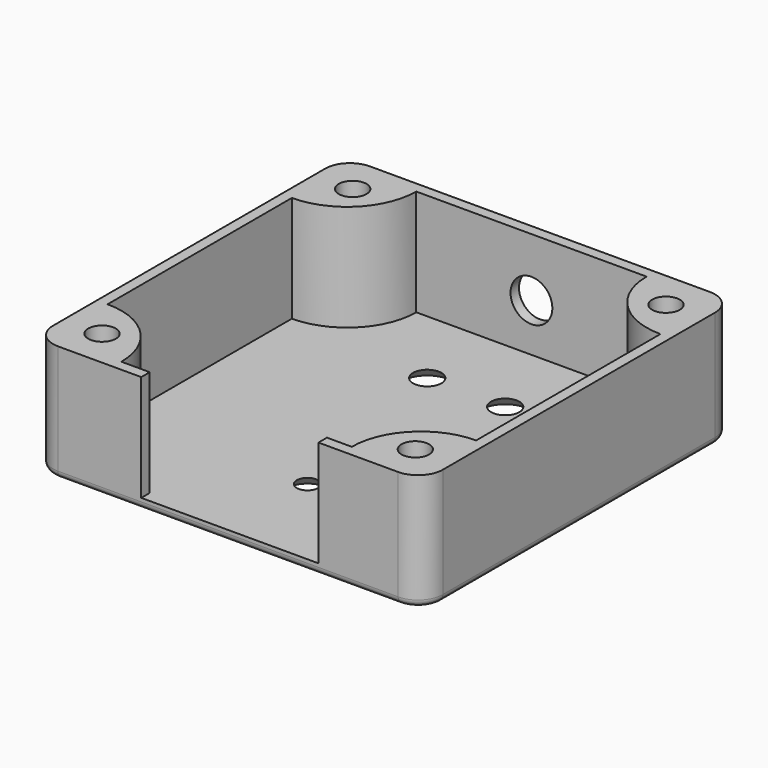
from build123d import *

# Parameters (mm, degrees)
PAD_DEPTH               = 16.5
POCKET_DEPTH            = 15
SKETCH002_R             = 1.95
PAD001_DEPTH            = 15
SKETCH002_MIRRORED_2_R  = 1.95
PAD001_MIRRORED_2_DEPTH = 15
FILLET_R                = 1
SKETCH008_W             = 25
SKETCH008_H             = 15
POCKET003_DEPTH         = 5
SKETCH010_R             = 1.5
SKETCH010_R_2           = 2
POCKET004_DEPTH         = 5
SKETCH011_R             = 2.95
POCKET005_DEPTH         = 5
CHAMFER_SIZE            = 1.499
POCKET006_DEPTH         = 0.5
SKETCH012_W             = 45.887503
SKETCH012_H             = 14.799758
PAD002_DEPTH            = 0.1
PAD003_DEPTH            = 0.4


with BuildPart() as main_box:
    # Sketch → Pad (new body)
    with BuildSketch(Plane.XY):
        with BuildLine():
            Line((-24, 27.5), (24, 27.5))
            ThreePointArc((27.5, 24), (26.474874, 26.474874), (24, 27.5))
            Line((27.5, 24), (27.5, -24))
            ThreePointArc((24, -27.5), (26.474874, -26.474874), (27.5, -24))
            Line((24, -27.5), (-24, -27.5))
            ThreePointArc((-27.5, -24), (-26.474874, -26.474874), (-24, -27.5))
            Line((-27.5, -24), (-27.5, 24))
            ThreePointArc((-24, 27.5), (-26.474874, 26.474874), (-27.5, 24))
        make_face()
    extrude(amount=PAD_DEPTH)

    # Sketch001 (on Face10 of Pad) → Pocket (cut)
    with BuildSketch(Plane.XY.offset(16.5)):
        with BuildLine():
            Line((-24.25, 26), (24.25, 26))
            ThreePointArc((26, 24.25), (25.487437, 25.487437), (24.25, 26))
            Line((26, 24.25), (26, -24.25))
            ThreePointArc((24.25, -26), (25.487437, -25.487437), (26, -24.25))
            Line((24.25, -26), (-24.25, -26))
            ThreePointArc((-26, -24.25), (-25.487437, -25.487437), (-24.25, -26))
            Line((-26, -24.25), (-26, 24.25))
            ThreePointArc((-24.25, 26), (-25.487437, 25.487437), (-26, 24.25))
        make_face()
    extrude(amount=-POCKET_DEPTH, mode=Mode.SUBTRACT)

    # Sketch002 (on Face19 of Pocket) → Pad001 (join)
    with BuildSketch(Plane.XY.offset(1.5)):
        with BuildLine():
            Line((-26, 16.25), (-26, 26))
            Line((-26, 26), (-16.25, 26))
            ThreePointArc((-26, 16.25), (-19.105709, 19.105709), (-16.25, 26))
        make_face()
        with Locations((-22.1, 22.1)):
            Circle(SKETCH002_R, mode=Mode.SUBTRACT)
    pad001 = extrude(amount=PAD001_DEPTH)

    # Sketch002 Mirrored 2 → Pad001 Mirrored 2 (add)
    with BuildSketch(Plane(origin=(0, 0, 1.5), x_dir=(-1, 0, 0), z_dir=(0, 0, -1))):
        with BuildLine():
            Line((-26, 16.25), (-26, 26))
            Line((-26, 26), (-16.25, 26))
            ThreePointArc((-26, 16.25), (-19.105709, 19.105709), (-16.25, 26))
        make_face()
        with Locations((-22.1, 22.1)):
            Circle(SKETCH002_MIRRORED_2_R, mode=Mode.SUBTRACT)
    pad001_mirrored_2 = extrude(amount=-PAD001_MIRRORED_2_DEPTH)

    # Mirrored001: Pad001, Pad001 Mirrored 2 across Sketch002 H_Axis
    add(pad001.mirror(Plane(origin=(0, 0, 1.5), x_dir=(0, 0, 1), z_dir=(0, 1, 0))))
    add(pad001_mirrored_2.mirror(Plane(origin=(0, 0, 1.5), x_dir=(0, 0, 1), z_dir=(0, 1, 0))))

    # Fillet
    fillet_edges = [main_box.edges().sort_by_distance(p)[0] for p in [
        (-27.5, 0, 0),
        (-26.474874, 26.474874, 0),
        (0, 27.5, 0),
        (26.474874, 26.474874, 0),
        (27.5, 0, 0),
        (26.474874, -26.474874, 0),
        (0, -27.5, 0),
        (-26.474874, -26.474874, 0),
    ]]
    fillet(fillet_edges, radius=FILLET_R)

    # Sketch008 (on Face7 of Fillet) → Pocket003 (cut)
    with BuildSketch(Plane.XZ.offset(27.5)):
        with Locations((0.25, 9)):
            Rectangle(SKETCH008_W, SKETCH008_H)
    extrude(amount=-POCKET003_DEPTH, mode=Mode.SUBTRACT)

    # Sketch010 (on Face35 of Pocket003) → Pocket004 (cut)
    with BuildSketch(Plane.XY.offset(1.5)):
        with Locations((0, -13.5)):
            Circle(SKETCH010_R)
        with Locations((-5.5, 14.5)):
            Circle(SKETCH010_R_2)
        with Locations((5.5, 14.5)):
            Circle(SKETCH010_R_2)
    extrude(amount=-POCKET004_DEPTH, mode=Mode.SUBTRACT)

    # Sketch011 (on Face10 of Pocket004) → Pocket005 (cut)
    with BuildSketch(Plane(origin=(0, 27.5, 0), x_dir=(-1, 0, 0), z_dir=(0, 1, 0))):
        with Locations((0, 8.25)):
            Circle(SKETCH011_R)
    extrude(amount=-POCKET005_DEPTH, mode=Mode.SUBTRACT)

    # Chamfer
    chamfer_edges = [main_box.edges().sort_by_distance(p)[0] for p in [
        (3.5, 14.5, 0),
        (-7.5, 14.5, 0),
        (-1.5, -13.5, 0),
    ]]
    chamfer(chamfer_edges, length=CHAMFER_SIZE)

    # Clone2D → Pocket006 (cut)
    with BuildSketch(Plane(origin=(0, 0, 0), x_dir=(-1, 0, 0), z_dir=(0, 0, 1))):
        with BuildLine():
            add(Edge.make_bspline(
                [(-20.310365, 7), (-22.666379, 7)],
                knots=[0, 0, 2.356014, 2.356014], degree=1))
            add(Edge.make_bspline(
                [(-22.666379, 7), (-20.272211, -7)],
                knots=[0, 0, 14.20324, 14.20324], degree=1))
            add(Edge.make_bspline(
                [(-20.272211, -7), (-15.169104, -7)],
                knots=[0, 0, 5.103107, 5.103107], degree=1))
            add(Edge.make_bspline(
                [(-15.169104, -7), (-13.757404, -7), (-13.061092, -6.62609)],
                knots=[0, 0, 0, 1, 1, 1], degree=2))
            add(Edge.make_bspline(
                [(-13.061092, -6.62609), (-12.36478, -6.252816), (-11.931096, -5.418514)],
                knots=[0, 0, 0, 1, 1, 1], degree=2))
            add(Edge.make_bspline(
                [(-11.931096, -5.418514), (-11.496775, -4.584847), (-11.496775, -3.310501)],
                knots=[0, 0, 0, 1, 1, 1], degree=2))
            add(Edge.make_bspline(
                [(-11.496775, -3.310501), (-11.496775, -1.441588), (-12.408021, -0.315407)],
                knots=[0, 0, 0, 1, 1, 1], degree=2))
            add(Edge.make_bspline(
                [(-12.408021, -0.315407), (-13.318632, 0.810138), (-15.026026, 1.078488)],
                knots=[0, 0, 0, 1, 1, 1], degree=2))
            add(Edge.make_bspline(
                [(-15.026026, 1.078488), (-14.549101, 1.595476), (-14.091252, 2.545512)],
                knots=[0, 0, 0, 1, 1, 1], degree=2))
            add(Edge.make_bspline(
                [(-14.091252, 2.545512), (-13.32817, 4.16706), (-12.412473, 7)],
                knots=[0, 0, 0, 1, 1, 1], degree=2))
            add(Edge.make_bspline(
                [(-12.412473, 7), (-14.949718, 7)],
                knots=[0, 0, 2.537246, 2.537246], degree=1))
            add(Edge.make_bspline(
                [(-14.949718, 7), (-15.102335, 6.409248), (-15.979878, 3.788699)],
                knots=[0, 0, 0, 1, 1, 1], degree=2))
            add(Edge.make_bspline(
                [(-15.979878, 3.788699), (-16.437727, 2.44504), (-16.819268, 1.89435)],
                knots=[0, 0, 0, 1, 1, 1], degree=2))
            add(Edge.make_bspline(
                [(-16.819268, 1.89435), (-17.095885, 1.505814), (-17.38204, 1.363372)],
                knots=[0, 0, 0, 1, 1, 1], degree=2))
            add(Edge.make_bspline(
                [(-17.38204, 1.363372), (-17.668196, 1.22093), (-18.345431, 1.22093)],
                knots=[0, 0, 0, 1, 1, 1], degree=2))
            add(Edge.make_bspline(
                [(-18.345431, 1.22093), (-19.318359, 1.22093)],
                knots=[0, 0, 0.972929, 0.972929], degree=1))
            add(Edge.make_bspline(
                [(-19.318359, 1.22093), (-20.310365, 7)],
                knots=[0, 0, 5.863593, 5.863593], degree=1))
        make_face()
        with BuildLine():
            add(Edge.make_bspline(
                [(-18.955896, -0.895349), (-17.70635, -0.895349)],
                knots=[0, 0, 1.249546, 1.249546], degree=1))
            add(Edge.make_bspline(
                [(-17.70635, -0.895349), (-15.932186, -0.895349), (-15.307731, -1.121094)],
                knots=[0, 0, 0, 1, 1, 1], degree=2))
            add(Edge.make_bspline(
                [(-15.307731, -1.121094), (-14.68264, -1.346839), (-14.268032, -1.951581)],
                knots=[0, 0, 0, 1, 1, 1], degree=2))
            add(Edge.make_bspline(
                [(-14.268032, -1.951581), (-13.852789, -2.556959), (-13.852789, -3.287609)],
                knots=[0, 0, 0, 1, 1, 1], degree=2))
            add(Edge.make_bspline(
                [(-13.852789, -3.287609), (-13.852789, -4.084393), (-14.377407, -4.4494)],
                knots=[0, 0, 0, 1, 1, 1], degree=2))
            add(Edge.make_bspline(
                [(-14.377407, -4.4494), (-14.68264, -4.680233), (-15.7128, -4.680233)],
                knots=[0, 0, 0, 1, 1, 1], degree=2))
            add(Edge.make_bspline(
                [(-15.7128, -4.680233), (-18.307276, -4.680233)],
                knots=[0, 0, 2.594477, 2.594477], degree=1))
            add(Edge.make_bspline(
                [(-18.307276, -4.680233), (-18.955896, -0.895349)],
                knots=[0, 0, 3.840059, 3.840059], degree=1))
        make_face(mode=Mode.SUBTRACT)
        with BuildLine():
            add(Edge.make_bspline(
                [(-11.117778, 7), (-8.72361, -7)],
                knots=[0, 0, 14.20324, 14.20324], degree=1))
            add(Edge.make_bspline(
                [(-8.72361, -7), (-5.63313, -7)],
                knots=[0, 0, 3.09048, 3.09048], degree=1))
            add(Edge.make_bspline(
                [(-5.63313, -7), (-4.021121, -7), (-3.44881, -6.866461)],
                knots=[0, 0, 0, 1, 1, 1], degree=2))
            add(Edge.make_bspline(
                [(-3.44881, -6.866461), (-2.48542, -6.627362), (-1.76558, -5.920876)],
                knots=[0, 0, 0, 1, 1, 1], degree=2))
            add(Edge.make_bspline(
                [(-1.76558, -5.920876), (-1.045104, -5.21439), (-0.625409, -4.034793)],
                knots=[0, 0, 0, 1, 1, 1], degree=2))
            add(Edge.make_bspline(
                [(-0.625409, -4.034793), (-0.205714, -2.855196), (-0.205714, -1.203125)],
                knots=[0, 0, 0, 1, 1, 1], degree=2))
            add(Edge.make_bspline(
                [(-0.205714, -1.203125), (-0.205714, 0.534793), (-0.634947, 2.010084)],
                knots=[0, 0, 0, 1, 1, 1], degree=2))
            add(Edge.make_bspline(
                [(-0.634947, 2.010084), (-1.064181, 3.485374), (-1.841888, 4.588663)],
                knots=[0, 0, 0, 1, 1, 1], degree=2))
            add(Edge.make_bspline(
                [(-1.841888, 4.588663), (-2.618959, 5.691951), (-3.44881, 6.193041)],
                knots=[0, 0, 0, 1, 1, 1], degree=2))
            add(Edge.make_bspline(
                [(-3.44881, 6.193041), (-4.278661, 6.694132), (-5.18482, 6.875999)],
                knots=[0, 0, 0, 1, 1, 1], degree=2))
            add(Edge.make_bspline(
                [(-5.18482, 6.875999), (-5.776208, 7), (-7.073447, 7)],
                knots=[0, 0, 0, 1, 1, 1], degree=2))
            add(Edge.make_bspline(
                [(-7.073447, 7), (-11.117778, 7)],
                knots=[0, 0, 4.044331, 4.044331], degree=1))
        make_face()
        with BuildLine():
            add(Edge.make_bspline(
                [(-8.370685, 4.761628), (-7.17837, 4.761628)],
                knots=[0, 0, 1.192315, 1.192315], degree=1))
            add(Edge.make_bspline(
                [(-7.17837, 4.761628), (-5.871593, 4.761628), (-5.346975, 4.57976)],
                knots=[0, 0, 0, 1, 1, 1], degree=2))
            add(Edge.make_bspline(
                [(-5.346975, 4.57976), (-4.660202, 4.350836), (-4.059275, 3.639262)],
                knots=[0, 0, 0, 1, 1, 1], degree=2))
            add(Edge.make_bspline(
                [(-4.059275, 3.639262), (-3.458348, 2.927053), (-3.019577, 1.660974)],
                knots=[0, 0, 0, 1, 1, 1], degree=2))
            add(Edge.make_bspline(
                [(-3.019577, 1.660974), (-2.580805, 0.394259), (-2.580805, -1.268623)],
                knots=[0, 0, 0, 1, 1, 1], degree=2))
            add(Edge.make_bspline(
                [(-2.580805, -1.268623), (-2.580805, -2.644713), (-2.938817, -3.428143)],
                knots=[0, 0, 0, 1, 1, 1], degree=2))
            add(Edge.make_bspline(
                [(-2.938817, -3.428143), (-3.296194, -4.212209), (-3.89712, -4.488826)],
                knots=[0, 0, 0, 1, 1, 1], degree=2))
            add(Edge.make_bspline(
                [(-3.89712, -4.488826), (-4.326354, -4.680233), (-5.394667, -4.680233)],
                knots=[0, 0, 0, 1, 1, 1], degree=2))
            add(Edge.make_bspline(
                [(-5.394667, -4.680233), (-6.758675, -4.680233)],
                knots=[0, 0, 1.364008, 1.364008], degree=1))
            add(Edge.make_bspline(
                [(-6.758675, -4.680233), (-8.370685, 4.761628)],
                knots=[0, 0, 9.578481, 9.578481], degree=1))
        make_face(mode=Mode.SUBTRACT)
        with BuildLine():
            add(Edge.make_bspline(
                [(6.144395, 7), (3.616688, 7)],
                knots=[0, 0, 2.527707, 2.527707], degree=1))
            add(Edge.make_bspline(
                [(3.616688, 7), (1.565907, -7)],
                knots=[0, 0, 14.149406, 14.149406], degree=1))
            add(Edge.make_bspline(
                [(1.565907, -7), (3.92192, -7)],
                knots=[0, 0, 2.356014, 2.356014], degree=1))
            add(Edge.make_bspline(
                [(3.92192, -7), (5.381314, 3.594749)],
                knots=[0, 0, 10.69479, 10.69479], degree=1))
            add(Edge.make_bspline(
                [(5.381314, 3.594749), (10.121957, -7)],
                knots=[0, 0, 11.606998, 11.606998], degree=1))
            add(Edge.make_bspline(
                [(10.121957, -7), (12.458894, -7)],
                knots=[0, 0, 2.336937, 2.336937], degree=1))
            add(Edge.make_bspline(
                [(12.458894, -7), (6.144395, 7)],
                knots=[0, 0, 15.358154, 15.358154], degree=1))
        make_face()
        with BuildLine():
            add(Edge.make_bspline(
                [(20.272211, 7), (18.068814, 7)],
                knots=[0, 0, 2.203398, 2.203398], degree=1))
            add(Edge.make_bspline(
                [(18.068814, 7), (14.968795, -2.40625)],
                knots=[0, 0, 9.903921, 9.903921], degree=1))
            add(Edge.make_bspline(
                [(14.968795, -2.40625), (13.366325, 7)],
                knots=[0, 0, 9.541774, 9.541774], degree=1))
            add(Edge.make_bspline(
                [(13.366325, 7), (11.162927, 7)],
                knots=[0, 0, 2.203398, 2.203398], degree=1))
            add(Edge.make_bspline(
                [(11.162927, 7), (13.557095, -7)],
                knots=[0, 0, 14.20324, 14.20324], degree=1))
            add(Edge.make_bspline(
                [(13.557095, -7), (15.760492, -7)],
                knots=[0, 0, 2.203398, 2.203398], degree=1))
            add(Edge.make_bspline(
                [(15.760492, -7), (18.860511, 2.368096)],
                knots=[0, 0, 9.867691, 9.867691], degree=1))
            add(Edge.make_bspline(
                [(18.860511, 2.368096), (20.462982, -7)],
                knots=[0, 0, 9.504164, 9.504164], degree=1))
            add(Edge.make_bspline(
                [(20.462982, -7), (22.666379, -7)],
                knots=[0, 0, 2.203398, 2.203398], degree=1))
            add(Edge.make_bspline(
                [(22.666379, -7), (20.272211, 7)],
                knots=[0, 0, 14.20324, 14.20324], degree=1))
        make_face()
    extrude(amount=POCKET006_DEPTH, mode=Mode.SUBTRACT)


with BuildPart() as obj1:
    # Sketch012 → Pad002 (new body)
    with BuildSketch(Plane.XY.offset(0.5)):
        with Locations((-0.042916, 0.149727)):
            Rectangle(SKETCH012_W, SKETCH012_H)
    extrude(amount=-PAD002_DEPTH)

    # Clone2D001 → Pad003 (join)
    with BuildSketch(Plane(origin=(0, 0, 0), x_dir=(-1, 0, 0), z_dir=(0, 0, 1))):
        with BuildLine():
            add(Edge.make_bspline(
                [(-20.310365, 7), (-22.666379, 7)],
                knots=[0, 0, 2.356014, 2.356014], degree=1))
            add(Edge.make_bspline(
                [(-22.666379, 7), (-20.272211, -7)],
                knots=[0, 0, 14.20324, 14.20324], degree=1))
            add(Edge.make_bspline(
                [(-20.272211, -7), (-15.169104, -7)],
                knots=[0, 0, 5.103107, 5.103107], degree=1))
            add(Edge.make_bspline(
                [(-15.169104, -7), (-13.757404, -7), (-13.061092, -6.62609)],
                knots=[0, 0, 0, 1, 1, 1], degree=2))
            add(Edge.make_bspline(
                [(-13.061092, -6.62609), (-12.36478, -6.252816), (-11.931096, -5.418514)],
                knots=[0, 0, 0, 1, 1, 1], degree=2))
            add(Edge.make_bspline(
                [(-11.931096, -5.418514), (-11.496775, -4.584847), (-11.496775, -3.310501)],
                knots=[0, 0, 0, 1, 1, 1], degree=2))
            add(Edge.make_bspline(
                [(-11.496775, -3.310501), (-11.496775, -1.441588), (-12.408021, -0.315407)],
                knots=[0, 0, 0, 1, 1, 1], degree=2))
            add(Edge.make_bspline(
                [(-12.408021, -0.315407), (-13.318632, 0.810138), (-15.026026, 1.078488)],
                knots=[0, 0, 0, 1, 1, 1], degree=2))
            add(Edge.make_bspline(
                [(-15.026026, 1.078488), (-14.549101, 1.595476), (-14.091252, 2.545512)],
                knots=[0, 0, 0, 1, 1, 1], degree=2))
            add(Edge.make_bspline(
                [(-14.091252, 2.545512), (-13.32817, 4.16706), (-12.412473, 7)],
                knots=[0, 0, 0, 1, 1, 1], degree=2))
            add(Edge.make_bspline(
                [(-12.412473, 7), (-14.949718, 7)],
                knots=[0, 0, 2.537246, 2.537246], degree=1))
            add(Edge.make_bspline(
                [(-14.949718, 7), (-15.102335, 6.409248), (-15.979878, 3.788699)],
                knots=[0, 0, 0, 1, 1, 1], degree=2))
            add(Edge.make_bspline(
                [(-15.979878, 3.788699), (-16.437727, 2.44504), (-16.819268, 1.89435)],
                knots=[0, 0, 0, 1, 1, 1], degree=2))
            add(Edge.make_bspline(
                [(-16.819268, 1.89435), (-17.095885, 1.505814), (-17.38204, 1.363372)],
                knots=[0, 0, 0, 1, 1, 1], degree=2))
            add(Edge.make_bspline(
                [(-17.38204, 1.363372), (-17.668196, 1.22093), (-18.345431, 1.22093)],
                knots=[0, 0, 0, 1, 1, 1], degree=2))
            add(Edge.make_bspline(
                [(-18.345431, 1.22093), (-19.318359, 1.22093)],
                knots=[0, 0, 0.972929, 0.972929], degree=1))
            add(Edge.make_bspline(
                [(-19.318359, 1.22093), (-20.310365, 7)],
                knots=[0, 0, 5.863593, 5.863593], degree=1))
        make_face()
        with BuildLine():
            add(Edge.make_bspline(
                [(-18.955896, -0.895349), (-17.70635, -0.895349)],
                knots=[0, 0, 1.249546, 1.249546], degree=1))
            add(Edge.make_bspline(
                [(-17.70635, -0.895349), (-15.932186, -0.895349), (-15.307731, -1.121094)],
                knots=[0, 0, 0, 1, 1, 1], degree=2))
            add(Edge.make_bspline(
                [(-15.307731, -1.121094), (-14.68264, -1.346839), (-14.268032, -1.951581)],
                knots=[0, 0, 0, 1, 1, 1], degree=2))
            add(Edge.make_bspline(
                [(-14.268032, -1.951581), (-13.852789, -2.556959), (-13.852789, -3.287609)],
                knots=[0, 0, 0, 1, 1, 1], degree=2))
            add(Edge.make_bspline(
                [(-13.852789, -3.287609), (-13.852789, -4.084393), (-14.377407, -4.4494)],
                knots=[0, 0, 0, 1, 1, 1], degree=2))
            add(Edge.make_bspline(
                [(-14.377407, -4.4494), (-14.68264, -4.680233), (-15.7128, -4.680233)],
                knots=[0, 0, 0, 1, 1, 1], degree=2))
            add(Edge.make_bspline(
                [(-15.7128, -4.680233), (-18.307276, -4.680233)],
                knots=[0, 0, 2.594477, 2.594477], degree=1))
            add(Edge.make_bspline(
                [(-18.307276, -4.680233), (-18.955896, -0.895349)],
                knots=[0, 0, 3.840059, 3.840059], degree=1))
        make_face(mode=Mode.SUBTRACT)
        with BuildLine():
            add(Edge.make_bspline(
                [(-11.117778, 7), (-8.72361, -7)],
                knots=[0, 0, 14.20324, 14.20324], degree=1))
            add(Edge.make_bspline(
                [(-8.72361, -7), (-5.63313, -7)],
                knots=[0, 0, 3.09048, 3.09048], degree=1))
            add(Edge.make_bspline(
                [(-5.63313, -7), (-4.021121, -7), (-3.44881, -6.866461)],
                knots=[0, 0, 0, 1, 1, 1], degree=2))
            add(Edge.make_bspline(
                [(-3.44881, -6.866461), (-2.48542, -6.627362), (-1.76558, -5.920876)],
                knots=[0, 0, 0, 1, 1, 1], degree=2))
            add(Edge.make_bspline(
                [(-1.76558, -5.920876), (-1.045104, -5.21439), (-0.625409, -4.034793)],
                knots=[0, 0, 0, 1, 1, 1], degree=2))
            add(Edge.make_bspline(
                [(-0.625409, -4.034793), (-0.205714, -2.855196), (-0.205714, -1.203125)],
                knots=[0, 0, 0, 1, 1, 1], degree=2))
            add(Edge.make_bspline(
                [(-0.205714, -1.203125), (-0.205714, 0.534793), (-0.634947, 2.010084)],
                knots=[0, 0, 0, 1, 1, 1], degree=2))
            add(Edge.make_bspline(
                [(-0.634947, 2.010084), (-1.064181, 3.485374), (-1.841888, 4.588663)],
                knots=[0, 0, 0, 1, 1, 1], degree=2))
            add(Edge.make_bspline(
                [(-1.841888, 4.588663), (-2.618959, 5.691951), (-3.44881, 6.193041)],
                knots=[0, 0, 0, 1, 1, 1], degree=2))
            add(Edge.make_bspline(
                [(-3.44881, 6.193041), (-4.278661, 6.694132), (-5.18482, 6.875999)],
                knots=[0, 0, 0, 1, 1, 1], degree=2))
            add(Edge.make_bspline(
                [(-5.18482, 6.875999), (-5.776208, 7), (-7.073447, 7)],
                knots=[0, 0, 0, 1, 1, 1], degree=2))
            add(Edge.make_bspline(
                [(-7.073447, 7), (-11.117778, 7)],
                knots=[0, 0, 4.044331, 4.044331], degree=1))
        make_face()
        with BuildLine():
            add(Edge.make_bspline(
                [(-8.370685, 4.761628), (-7.17837, 4.761628)],
                knots=[0, 0, 1.192315, 1.192315], degree=1))
            add(Edge.make_bspline(
                [(-7.17837, 4.761628), (-5.871593, 4.761628), (-5.346975, 4.57976)],
                knots=[0, 0, 0, 1, 1, 1], degree=2))
            add(Edge.make_bspline(
                [(-5.346975, 4.57976), (-4.660202, 4.350836), (-4.059275, 3.639262)],
                knots=[0, 0, 0, 1, 1, 1], degree=2))
            add(Edge.make_bspline(
                [(-4.059275, 3.639262), (-3.458348, 2.927053), (-3.019577, 1.660974)],
                knots=[0, 0, 0, 1, 1, 1], degree=2))
            add(Edge.make_bspline(
                [(-3.019577, 1.660974), (-2.580805, 0.394259), (-2.580805, -1.268623)],
                knots=[0, 0, 0, 1, 1, 1], degree=2))
            add(Edge.make_bspline(
                [(-2.580805, -1.268623), (-2.580805, -2.644713), (-2.938817, -3.428143)],
                knots=[0, 0, 0, 1, 1, 1], degree=2))
            add(Edge.make_bspline(
                [(-2.938817, -3.428143), (-3.296194, -4.212209), (-3.89712, -4.488826)],
                knots=[0, 0, 0, 1, 1, 1], degree=2))
            add(Edge.make_bspline(
                [(-3.89712, -4.488826), (-4.326354, -4.680233), (-5.394667, -4.680233)],
                knots=[0, 0, 0, 1, 1, 1], degree=2))
            add(Edge.make_bspline(
                [(-5.394667, -4.680233), (-6.758675, -4.680233)],
                knots=[0, 0, 1.364008, 1.364008], degree=1))
            add(Edge.make_bspline(
                [(-6.758675, -4.680233), (-8.370685, 4.761628)],
                knots=[0, 0, 9.578481, 9.578481], degree=1))
        make_face(mode=Mode.SUBTRACT)
        with BuildLine():
            add(Edge.make_bspline(
                [(6.144395, 7), (3.616688, 7)],
                knots=[0, 0, 2.527707, 2.527707], degree=1))
            add(Edge.make_bspline(
                [(3.616688, 7), (1.565907, -7)],
                knots=[0, 0, 14.149406, 14.149406], degree=1))
            add(Edge.make_bspline(
                [(1.565907, -7), (3.92192, -7)],
                knots=[0, 0, 2.356014, 2.356014], degree=1))
            add(Edge.make_bspline(
                [(3.92192, -7), (5.381314, 3.594749)],
                knots=[0, 0, 10.69479, 10.69479], degree=1))
            add(Edge.make_bspline(
                [(5.381314, 3.594749), (10.121957, -7)],
                knots=[0, 0, 11.606998, 11.606998], degree=1))
            add(Edge.make_bspline(
                [(10.121957, -7), (12.458894, -7)],
                knots=[0, 0, 2.336937, 2.336937], degree=1))
            add(Edge.make_bspline(
                [(12.458894, -7), (6.144395, 7)],
                knots=[0, 0, 15.358154, 15.358154], degree=1))
        make_face()
        with BuildLine():
            add(Edge.make_bspline(
                [(20.272211, 7), (18.068814, 7)],
                knots=[0, 0, 2.203398, 2.203398], degree=1))
            add(Edge.make_bspline(
                [(18.068814, 7), (14.968795, -2.40625)],
                knots=[0, 0, 9.903921, 9.903921], degree=1))
            add(Edge.make_bspline(
                [(14.968795, -2.40625), (13.366325, 7)],
                knots=[0, 0, 9.541774, 9.541774], degree=1))
            add(Edge.make_bspline(
                [(13.366325, 7), (11.162927, 7)],
                knots=[0, 0, 2.203398, 2.203398], degree=1))
            add(Edge.make_bspline(
                [(11.162927, 7), (13.557095, -7)],
                knots=[0, 0, 14.20324, 14.20324], degree=1))
            add(Edge.make_bspline(
                [(13.557095, -7), (15.760492, -7)],
                knots=[0, 0, 2.203398, 2.203398], degree=1))
            add(Edge.make_bspline(
                [(15.760492, -7), (18.860511, 2.368096)],
                knots=[0, 0, 9.867691, 9.867691], degree=1))
            add(Edge.make_bspline(
                [(18.860511, 2.368096), (20.462982, -7)],
                knots=[0, 0, 9.504164, 9.504164], degree=1))
            add(Edge.make_bspline(
                [(20.462982, -7), (22.666379, -7)],
                knots=[0, 0, 2.203398, 2.203398], degree=1))
            add(Edge.make_bspline(
                [(22.666379, -7), (20.272211, 7)],
                knots=[0, 0, 14.20324, 14.20324], degree=1))
        make_face()
    extrude(amount=PAD003_DEPTH)


solid = Compound([main_box.part, obj1.part])
